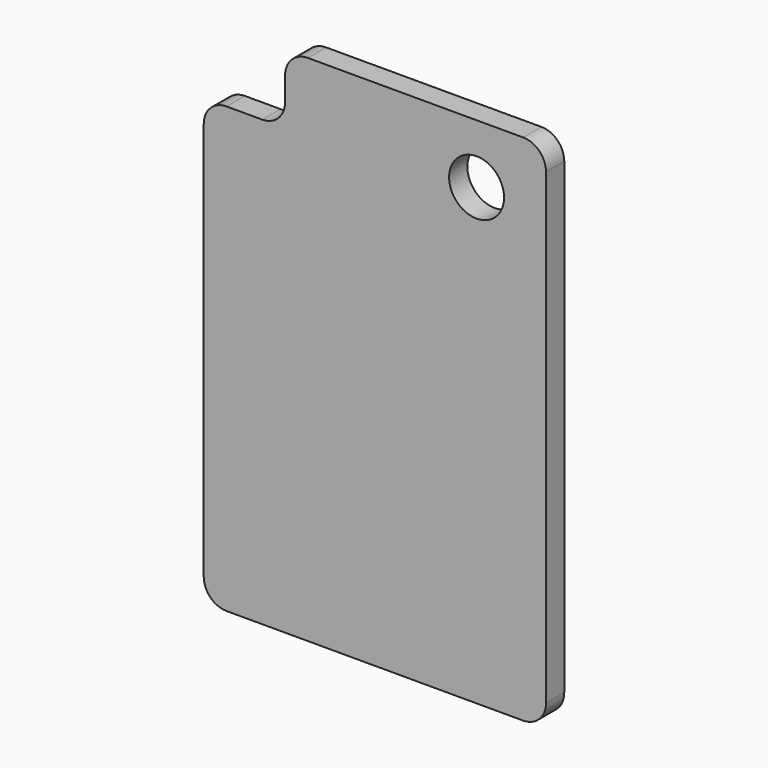
from build123d import *

# Parameters (mm, degrees)
F0_W     = 30
F0_H     = 45
F1_DEPTH = 2
F2_W     = 7.129192
F2_H     = 6.062236
F2_R     = 2.40786
F3_DEPTH = 2.001
F4_R     = 2


with BuildPart() as f1:
    # F0 (on Front) → F1 (new body)
    with BuildSketch(Plane.XZ):
        with Locations((23.987818, 33.938015)):
            Rectangle(F0_W, F0_H)
    extrude(amount=F1_DEPTH)

    # F2 (on Front) → F3 (cut, through all)
    with BuildSketch(Plane.XZ):
        with Locations((12.552414, 53.406897)):
            Rectangle(F2_W, F2_H)
        with Locations((32.902706, 51.254064)):
            Circle(F2_R)
    extrude(amount=F3_DEPTH, mode=Mode.SUBTRACT)

    # F4
    f4_edges = [f1.edges().sort_by_distance(p)[0] for p in [
        (8.987818, -1, 50.375779),
        (16.11701, -1, 50.375779),
        (16.11701, -1, 56.438015),
        (38.987818, -1, 56.438015),
        (38.987818, -1, 11.438015),
        (8.987818, -1, 11.438015),
    ]]
    fillet(f4_edges, radius=F4_R)


solid = f1.part
